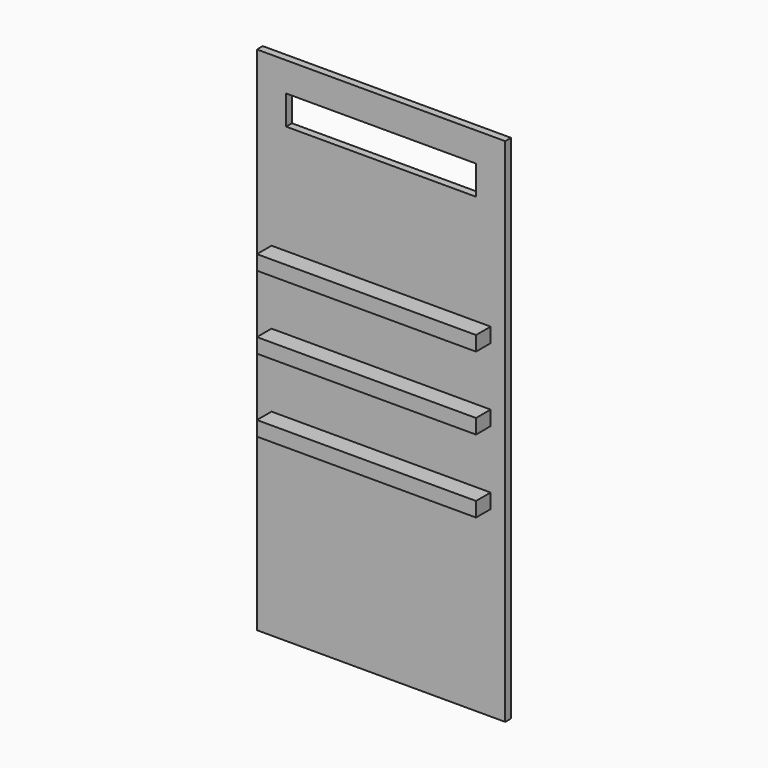
from build123d import *

# Parameters (mm, degrees)
F0_W     = 340
F0_H     = 700
F0_W_2   = 300
F0_H_2   = 20
F0_W_3   = 260
F0_H_3   = 40
F1_DEPTH = 10
F2_DEPTH = 35


with BuildPart() as f1:
    # F0 (on Front) → F1 (new body)
    with BuildSketch(Plane.XZ):
        with Locations((-152.945597, -15.922353)):
            Rectangle(F0_W, F0_H)
        with Locations((-152.945597, -105.922353)):
            Rectangle(F0_W_2, F0_H_2, mode=Mode.SUBTRACT)
        with Locations((-152.945597, 274.077647)):
            Rectangle(F0_W_3, F0_H_3, mode=Mode.SUBTRACT)
        with Locations((-152.945597, -5.922353)):
            Rectangle(F0_W_2, F0_H_2, mode=Mode.SUBTRACT)
        with Locations((-152.945597, 94.077647)):
            Rectangle(F0_W_2, F0_H_2, mode=Mode.SUBTRACT)
    extrude(amount=F1_DEPTH)

    # F0 (on Front) → F2 (join)
    with BuildSketch(Plane.XZ):
        with Locations((-152.945597, 94.077647)):
            Rectangle(F0_W_2, F0_H_2)
        with Locations((-152.945597, -5.922353)):
            Rectangle(F0_W_2, F0_H_2)
        with Locations((-152.945597, -105.922353)):
            Rectangle(F0_W_2, F0_H_2)
    extrude(amount=F2_DEPTH)


solid = f1.part
